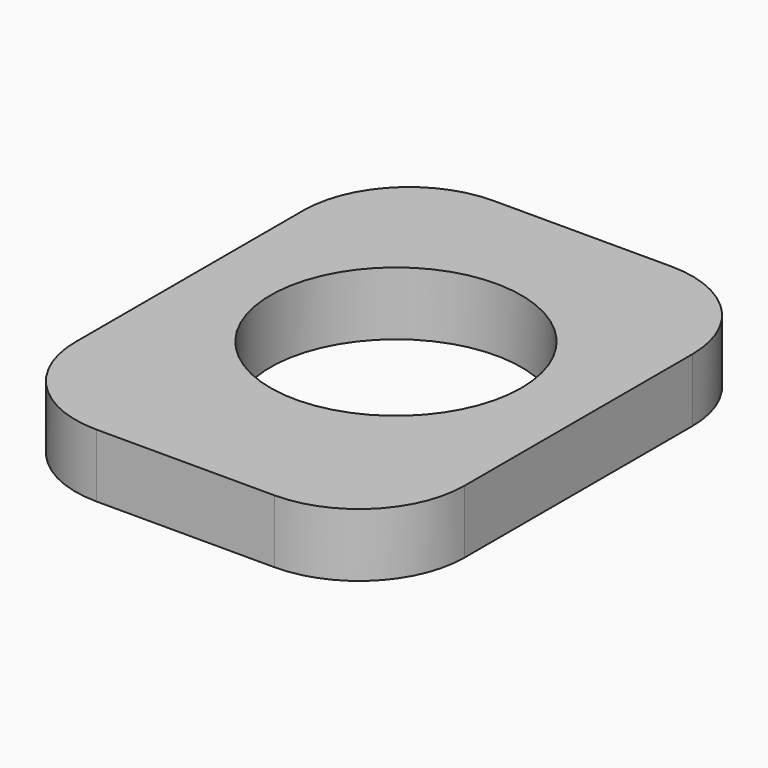
from build123d import *

# Parameters (mm, degrees)
F0_W     = 18.437991
F0_H     = 23.499398
F1_DEPTH = 3
F2_R     = 5
F3_R     = 5.946715
F4_DEPTH = 3


with BuildPart() as f1:
    # F0 (on Top) → F1 (new body)
    with BuildSketch(Plane.XY):
        with Locations((-31.047585, 14.190282)):
            Rectangle(F0_W, F0_H)
    extrude(amount=F1_DEPTH)

    # F2
    f2_edges = [f1.edges().sort_by_distance(p)[0] for p in [
        (-40.266581, 25.939981, 1.5),
        (-21.82859, 25.939981, 1.5),
        (-21.82859, 2.440583, 1.5),
        (-40.266581, 2.440583, 1.5),
    ]]
    fillet(f2_edges, radius=F2_R)

    # F3 (on Top) → F4 (cut)
    with BuildSketch(Plane.XY):
        with Locations((-31.025298, 14.870087)):
            Circle(F3_R)
    extrude(amount=F4_DEPTH, mode=Mode.SUBTRACT)


solid = f1.part
